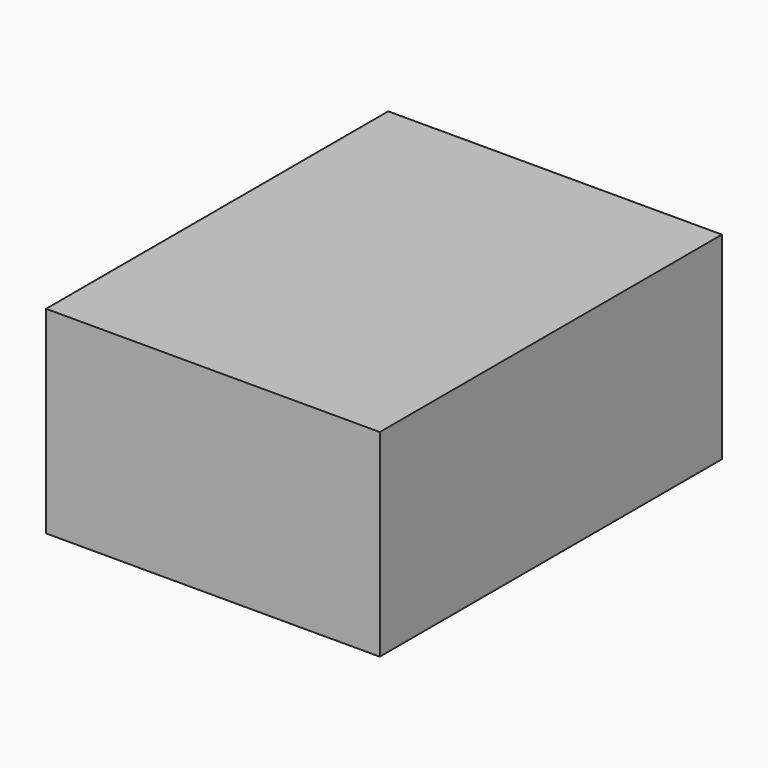
from build123d import *

# Parameters (mm, degrees)
F0_W     = 34.29
F0_H     = 43.942
F1_DEPTH = 20.32
F2_R     = 0.508
F3_DEPTH = 2.54


with BuildPart() as f1:
    # F0 (on Top) → F1 (new body)
    with BuildSketch(Plane.XY):
        Rectangle(F0_W, F0_H)
    extrude(amount=F1_DEPTH)

    # F2 (on face) → F3 (join)
    with BuildSketch(Plane(origin=(0, 0, 0), x_dir=(1, 0, 0), z_dir=(0, 0, -1))):
        with Locations((-7.62, 15.24)):
            Circle(F2_R)
        with Locations((7.62, 15.24)):
            Circle(F2_R)
        with Locations((-7.62, -15.24)):
            Circle(F2_R)
        with Locations((-2.54, -15.24)):
            Circle(F2_R)
        with Locations((2.54, -15.24)):
            Circle(F2_R)
        with Locations((7.62, -15.24)):
            Circle(F2_R)
    extrude(amount=F3_DEPTH)


solid = f1.part
